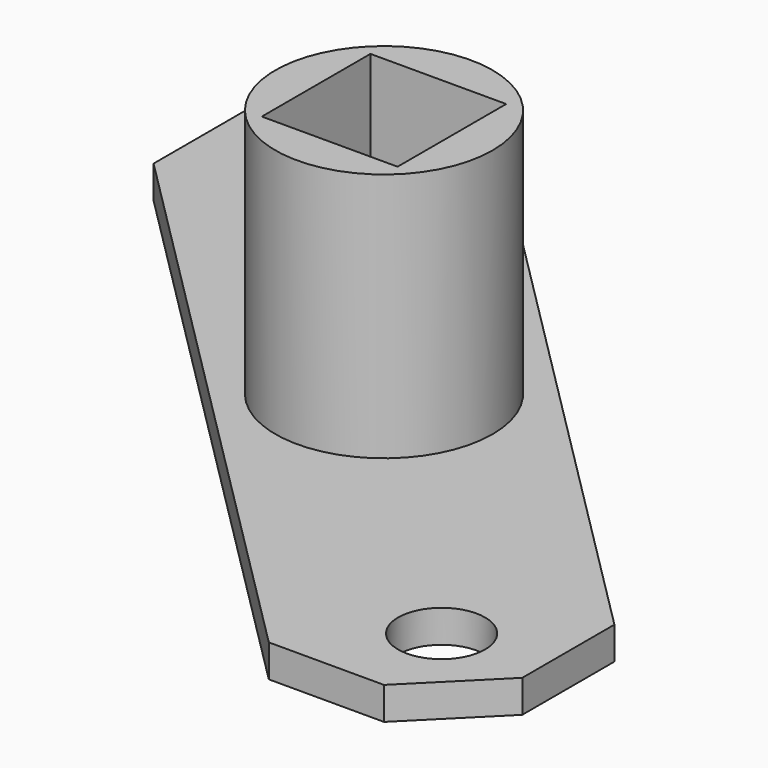
from build123d import *

# Parameters (mm, degrees)
F0_R     = 4
F0_R_2   = 10
F0_W     = 12.5
F0_H     = 12.5
F1_DEPTH = 3
F2_DEPTH = 26


with BuildPart() as f1:
    # F0 (on Top) → F1 (new body)
    with BuildSketch(Plane.XY):
        Polygon((-17.67767, 35.355339), (-28.284271, 35.355339), (-35.355339, 28.284271), (-35.355339, 17.67767), (17.67767, -35.355339), (28.284271, -35.355339), (35.355339, -28.284271), (35.355339, -17.67767), align=None)
        with Locations((26.516504, -26.516504)):
            Circle(F0_R, mode=Mode.SUBTRACT)
        with Locations((-26.516504, 26.516504)):
            Circle(F0_R, mode=Mode.SUBTRACT)
        Circle(F0_R_2, mode=Mode.SUBTRACT)
        Circle(F0_R_2)
        Rectangle(F0_W, F0_H, mode=Mode.SUBTRACT)
    extrude(amount=F1_DEPTH)

    # F0 (on Top) → F2 (join)
    with BuildSketch(Plane.XY):
        Circle(F0_R_2)
        Rectangle(F0_W, F0_H, mode=Mode.SUBTRACT)
    extrude(amount=F2_DEPTH)


solid = f1.part
